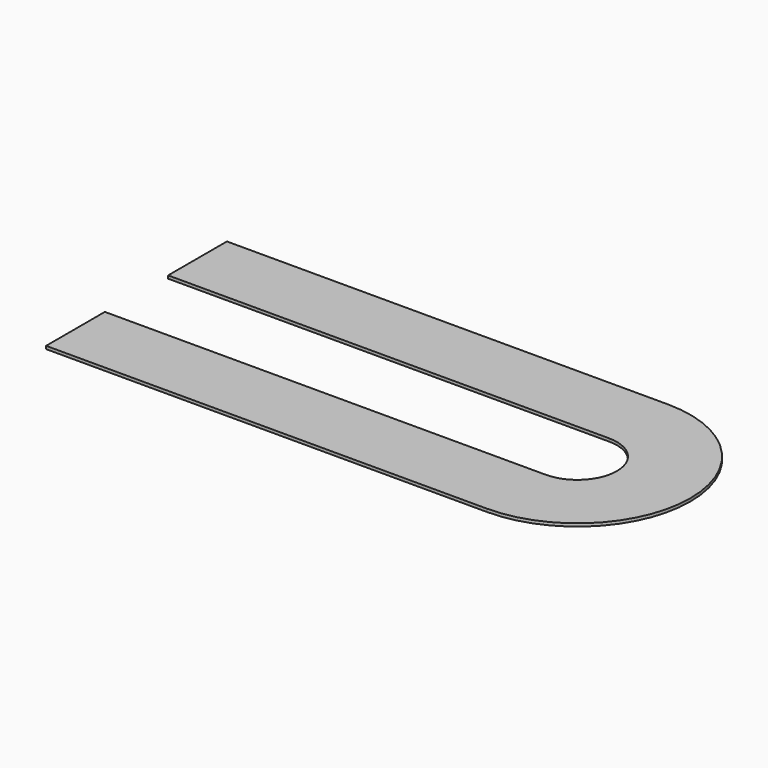
from build123d import *

# Parameters (mm, degrees)
F0_W     = 150
F0_H     = 25
F1_DEPTH = 1


with BuildPart() as f1:
    # F0 (on Top) → F1 (new body)
    with BuildSketch(Plane.XY):
        with Locations((-75, 25.95)):
            Rectangle(F0_W, F0_H)
        with BuildLine():
            ThreePointArc((0, 13.45), (9.510586, 9.510586), (13.45, 0))
            ThreePointArc((13.45, 0), (9.510586, -9.510586), (0, -13.45))
            Line((0, -13.45), (0, -38.45))
            ThreePointArc((0, -38.45), (38.45, 0), (0, 38.45))
            Line((0, 38.45), (0, 13.45))
        make_face()
        with Locations((-75, -25.95)):
            Rectangle(F0_W, F0_H)
    extrude(amount=F1_DEPTH)


solid = f1.part
